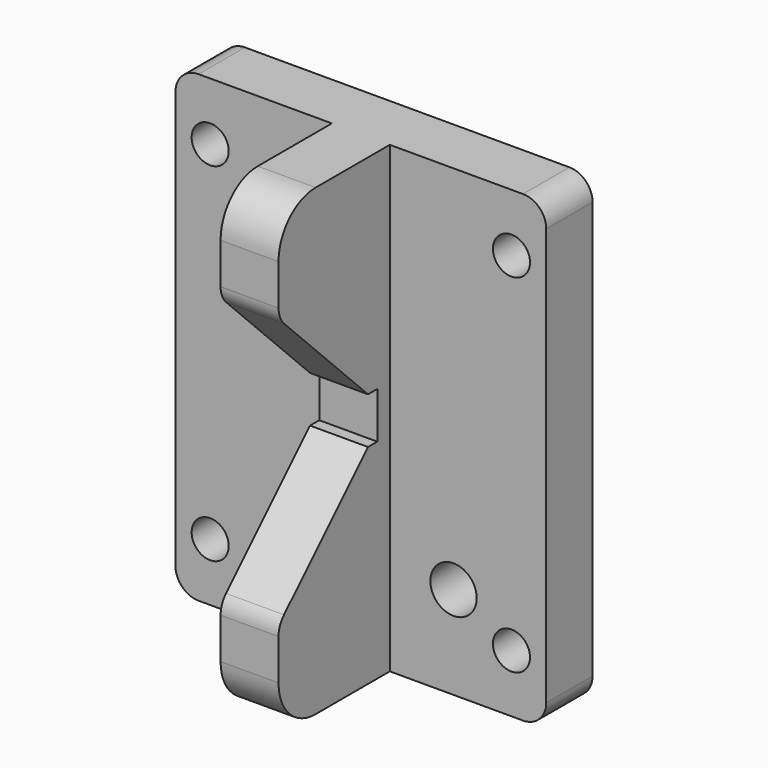
from build123d import *

# Parameters (mm, degrees)
F0_R     = 8
F0_R_2   = 10
F1_DEPTH = 25
F2_W     = 25
F2_H     = 200
F3_DEPTH = 60
F5_DEPTH = 25
F6_R     = 10
F7_R     = 20
F8_R     = 10


with BuildPart() as f1:
    # F0 (on Front) → F1 (new body)
    with BuildSketch(Plane.XZ):
        Polygon((-12.5, 100), (-80, 100), (-80, -100), (-12.5, -100), (12.5, -100), (80, -100), (80, 100), (12.5, 100), align=None)
        with Locations((-65, -75)):
            Circle(F0_R, mode=Mode.SUBTRACT)
        with Locations((40, -60)):
            Circle(F0_R_2, mode=Mode.SUBTRACT)
        with Locations((65, -75)):
            Circle(F0_R, mode=Mode.SUBTRACT)
        with Locations((-65, 75)):
            Circle(F0_R, mode=Mode.SUBTRACT)
        with Locations((-40, 60)):
            Circle(F0_R_2, mode=Mode.SUBTRACT)
        with Locations((65, 75)):
            Circle(F0_R, mode=Mode.SUBTRACT)
    extrude(amount=F1_DEPTH)

    # F2 (on face) → F3 (join)
    with BuildSketch(Plane.XZ.offset(25)):
        Rectangle(F2_W, F2_H)
    extrude(amount=F3_DEPTH)

    # F4 (on face) → F5 (cut)
    with BuildSketch(Plane.YZ.offset(12.5)):
        Polygon((-36.7595490813, 10), (-85, 58.2404509187), (-85, -58.2404509187), (-36.7595490813, -10), (-31.7595490813, -10), (-31.7595490813, 0), (-31.7595490813, 10), align=None)
    extrude(amount=-F5_DEPTH, mode=Mode.SUBTRACT)

    # F6
    f6_edges = [f1.edges().sort_by_distance(p)[0] for p in [
        (80, -12.5, 100),
        (-80, -12.5, 100),
        (-80, -12.5, -100),
        (80, -12.5, -100),
    ]]
    fillet(f6_edges, radius=F6_R)

    # F7
    f7_edges = [f1.edges().sort_by_distance(p)[0] for p in [
        (0, -85, -100),
        (0, -85, 100),
    ]]
    fillet(f7_edges, radius=F7_R)

    # F8
    f8_edges = [f1.edges().sort_by_distance(p)[0] for p in [
        (0, -85, -58.240451),
        (0, -85, 58.240451),
    ]]
    fillet(f8_edges, radius=F8_R)


solid = f1.part
